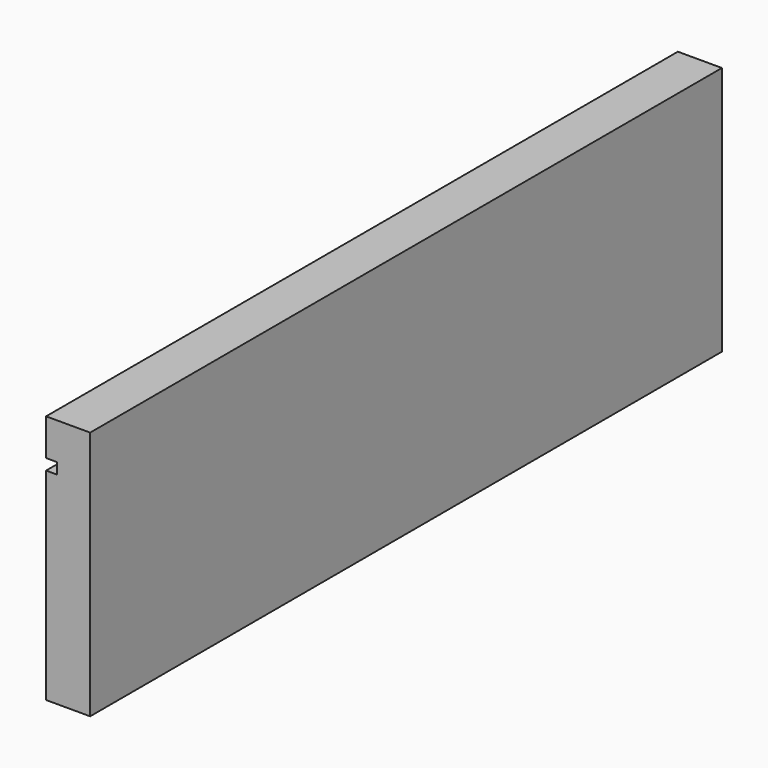
from build123d import *

# Parameters (mm, degrees)
F0_W      = 215
F0_H      = 68
F1_DEPTH  = 12
F2_W      = 3
F2_H      = 3
F3_DEPTH  = 300
F3_FACE_W = 3
F3_FACE_H = 3
F5_DEPTH  = 800


with BuildPart() as f1:
    # F0 (on Right) → F1 (new body)
    with BuildSketch(Plane.YZ):
        Rectangle(F0_W, F0_H)
    extrude(amount=F1_DEPTH)

    # F2 (on face) → F3 (join)
    with BuildSketch(Plane.XZ.offset(107.5)):
        with Locations((1.5, 22.5)):
            Rectangle(F2_W, F2_H)
    extrude(amount=F3_DEPTH)

    # F3_face (on face) → F5 (cut)
    with BuildSketch(Plane(origin=(1.5, -407.5, 22.5), x_dir=(1, 0, 0), z_dir=(0, -1, 0))):
        Rectangle(F3_FACE_W, F3_FACE_H)
    extrude(amount=-F5_DEPTH, mode=Mode.SUBTRACT)


solid = f1.part
